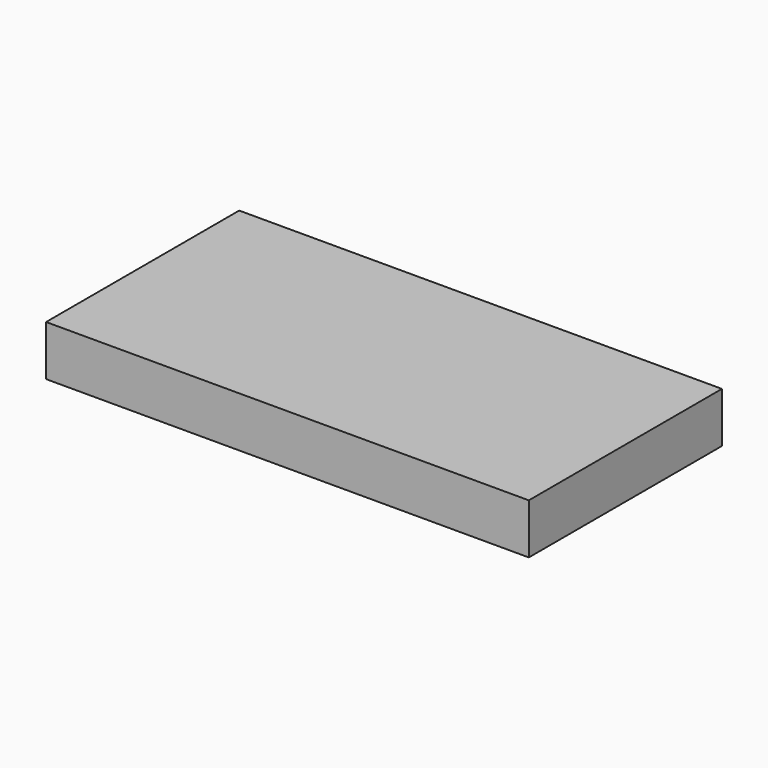
from build123d import *

# Parameters (mm, degrees)
F0_W     = 914.4
F0_H     = 28.575
F1_DEPTH = 95.25


with BuildPart() as f1:
    # F0 (on Top) → F1 (new body)
    with BuildSketch(Plane.XY):
        with Locations((-10.559292, 57.494107)):
            Rectangle(F0_W, F0_H)
        with Locations((-10.559292, 28.919107)):
            Rectangle(F0_W, F0_H)
        with Locations((-10.559292, 0.344107)):
            Rectangle(F0_W, F0_H)
        with Locations((-10.559292, -28.230893)):
            Rectangle(F0_W, F0_H)
        with Locations((-10.559292, -56.805893)):
            Rectangle(F0_W, F0_H)
        with Locations((-10.559292, -85.380893)):
            Rectangle(F0_W, F0_H)
        with Locations((-10.559292, -113.955893)):
            Rectangle(F0_W, F0_H)
        with Locations((-10.559292, -142.530893)):
            Rectangle(F0_W, F0_H)
        with Locations((-10.559292, -171.105893)):
            Rectangle(F0_W, F0_H)
        with Locations((-10.559292, -199.680893)):
            Rectangle(F0_W, F0_H)
        with Locations((-10.559292, -228.255893)):
            Rectangle(F0_W, F0_H)
        with Locations((-10.559292, -256.830893)):
            Rectangle(F0_W, F0_H)
        with Locations((-10.559292, -285.405893)):
            Rectangle(F0_W, F0_H)
        with Locations((-10.559292, -313.980893)):
            Rectangle(F0_W, F0_H)
        with Locations((-10.559292, -342.555893)):
            Rectangle(F0_W, F0_H)
        with Locations((-10.559292, -371.130893)):
            Rectangle(F0_W, F0_H)
    extrude(amount=F1_DEPTH)


solid = f1.part
